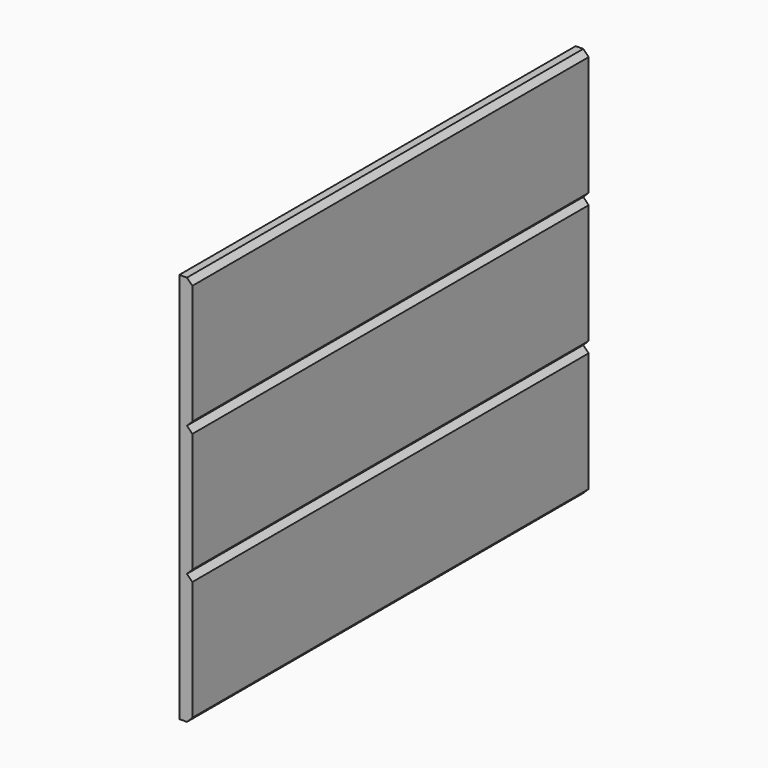
from build123d import *

# Parameters (mm, degrees)
F0_W     = 480
F0_H     = 360
F1_DEPTH = 12
F3_DEPTH = 480.001
F4_DEPTH = 24


with BuildPart() as f1:
    # F0 (on Right) → F1 (new body)
    with BuildSketch(Plane.YZ):
        Rectangle(F0_W, F0_H)
    extrude(amount=F1_DEPTH)

    # F2 (on face) → F3 (cut, through all)
    with BuildSketch(Plane(origin=(0, 240, 0), x_dir=(-1, 0, 0), z_dir=(0, 1, 0))):
        Polygon((-12, -175), (-12, -180), (-7, -180), align=None)
        Polygon((-7, -60), (-12, -60), (-12, -65), align=None)
        Polygon((-12, -55), (-12, -60), (-7, -60), align=None)
        Polygon((-7, 60), (-12, 60), (-12, 55), align=None)
        Polygon((-12, 65), (-12, 60), (-7, 60), align=None)
        Polygon((-7, 180), (-12, 180), (-12, 175), align=None)
    extrude(amount=-F3_DEPTH, mode=Mode.SUBTRACT)

    # F4 (cut): a face of the model
    f4_faces = [f1.faces().sort_by_distance(p)[0] for p in [
        (5.9234393404, -240, 0),
    ]]
    extrude(f4_faces, amount=-F4_DEPTH, mode=Mode.SUBTRACT)


solid = f1.part
